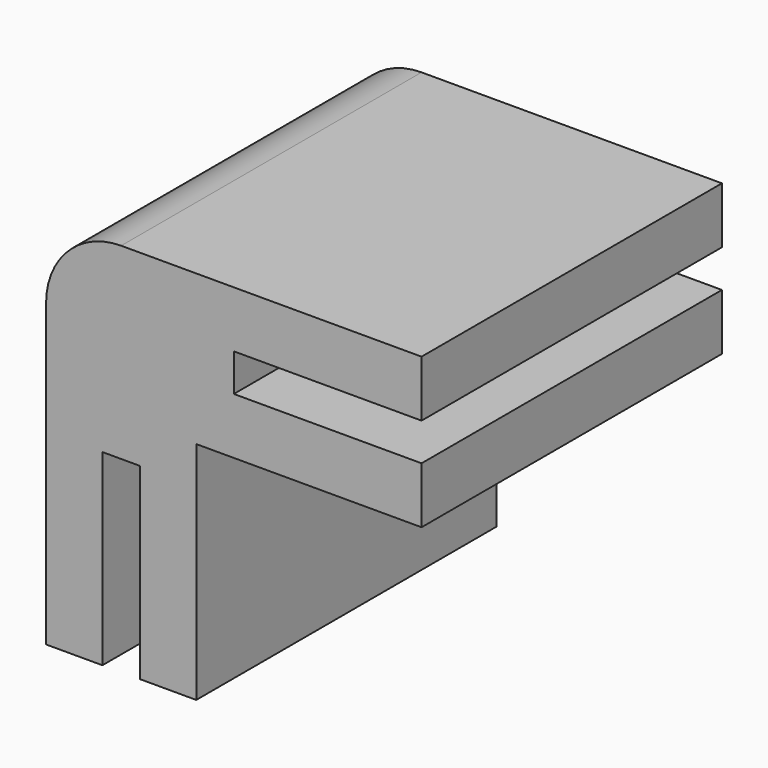
from build123d import *

# Parameters (mm, degrees)
F1_DEPTH = 25.4
F2_R     = 5.08


with BuildPart() as f1:
    # F0 (on Front) → F1 (new body)
    with BuildSketch(Plane.XZ):
        Polygon((12.7, 12.7), (-12.7, 12.7), (-12.7, -12.7), (-8.89, -12.7), (-8.89, 0), (-6.35, 0), (-6.35, -12.7), (-2.54, -12.7), (-2.54, 2.54), (12.7, 2.54), (12.7, 6.35), (0, 6.35), (0, 8.89), (12.7, 8.89), align=None)
    extrude(amount=F1_DEPTH)

    # F2
    f2_edges = [f1.edges().sort_by_distance(p)[0] for p in [
        (-12.7, -12.7, 12.7),
    ]]
    fillet(f2_edges, radius=F2_R)


solid = f1.part
